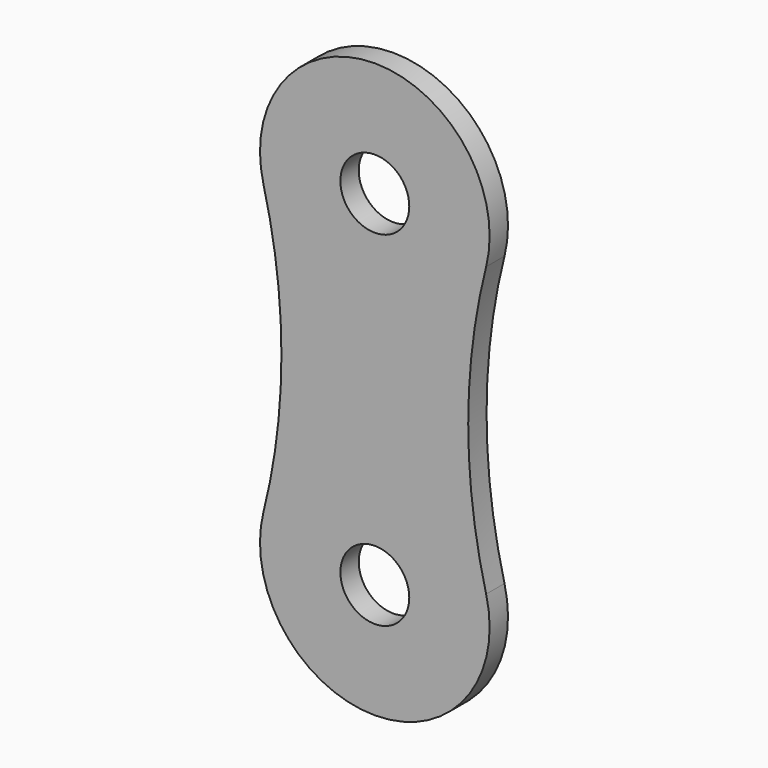
from build123d import *

# Parameters (mm, degrees)
F0_R     = 3.81
F1_DEPTH = 2.54


with BuildPart() as f1:
    # F0 (on Front) → F1 (new body)
    with BuildSketch(Plane.XZ):
        with BuildLine():
            ThreePointArc((12.312997, -15.938714), (10.330432, 0), (12.312997, 15.938714))
            ThreePointArc((12.312997, 15.938714), (0, 31.75), (-12.312997, 15.938714))
            ThreePointArc((-12.312997, 15.938714), (-10.330432, 0), (-12.312997, -15.938714))
            ThreePointArc((-12.312997, -15.938714), (0, -31.75), (12.312997, -15.938714))
        make_face()
        with Locations((0, -19.05)):
            Circle(F0_R, mode=Mode.SUBTRACT)
        with Locations((0, 19.05)):
            Circle(F0_R, mode=Mode.SUBTRACT)
        with BuildLine():
            ThreePointArc((12.312997, -15.938714), (10.330432, 0), (12.312997, 15.938714))
            ThreePointArc((12.312997, 15.938714), (0, 31.75), (-12.312997, 15.938714))
            ThreePointArc((-12.312997, 15.938714), (-10.330432, 0), (-12.312997, -15.938714))
            ThreePointArc((-12.312997, -15.938714), (0, -31.75), (12.312997, -15.938714))
        make_face()
        with Locations((0, -19.05)):
            Circle(F0_R, mode=Mode.SUBTRACT)
        with Locations((0, 19.05)):
            Circle(F0_R, mode=Mode.SUBTRACT)
    extrude(amount=F1_DEPTH)


solid = f1.part
